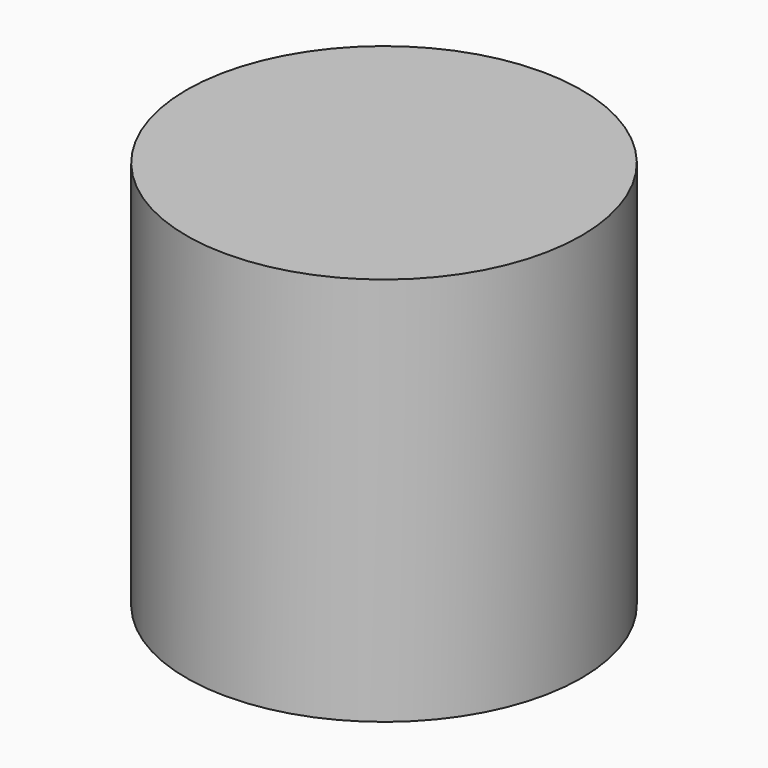
from build123d import *

# Parameters (mm, degrees)
F0_R     = 25.754095
F1_DEPTH = 50.8


with BuildPart() as f1:
    # F0 (on Top) → F1 (new body)
    with BuildSketch(Plane.XY):
        with Locations((23.12245, 25.829488)):
            Circle(F0_R)
    extrude(amount=-F1_DEPTH)


solid = f1.part
